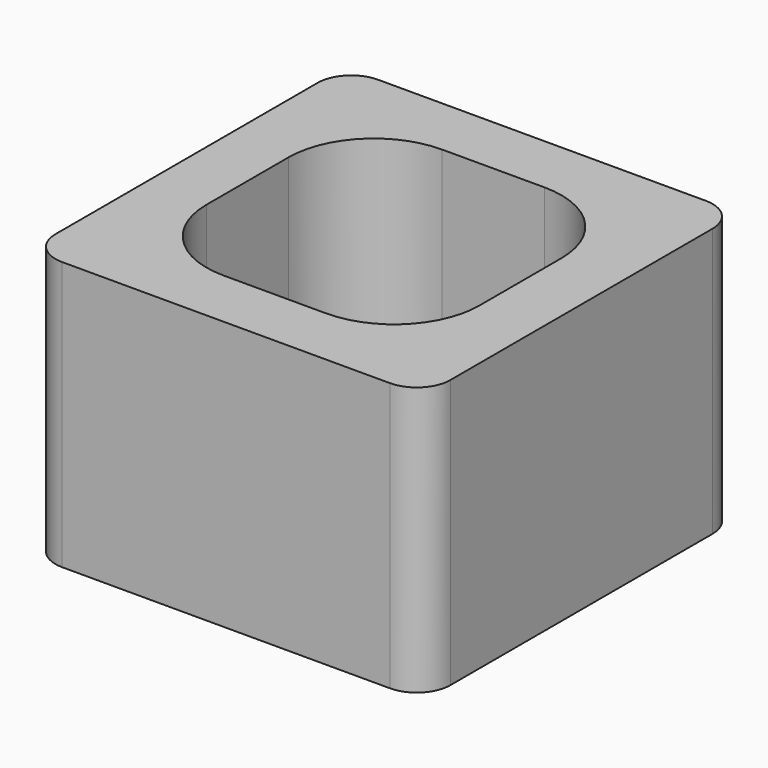
from build123d import *

# Parameters (mm, degrees)
F0_W     = 58.8
F0_H     = 58.8
F1_DEPTH = 40
F2_W     = 40.64
F2_H     = 40.64
F3_DEPTH = 40.001
F4_R     = 2.5
F5_DEPTH = 8
F6_R     = 12.7
F7_R     = 5


with BuildPart() as f1:
    # F0 (on Top) → F1 (new body)
    with BuildSketch(Plane.XY):
        Rectangle(F0_W, F0_H)
    extrude(amount=F1_DEPTH)

    # F2 (on face) → F3 (cut, through all)
    with BuildSketch(Plane.XY.offset(40)):
        Rectangle(F2_W, F2_H)
    extrude(amount=-F3_DEPTH, mode=Mode.SUBTRACT)

    # F4 (on face) → F5 (cut)
    with BuildSketch(Plane(origin=(0, 0, 0), x_dir=(1, 0, 0), z_dir=(0, 0, -1))):
        with Locations((-24.86, 0)):
            Circle(F4_R)
        with Locations((0, 24.86)):
            Circle(F4_R)
        with Locations((24.86, 0)):
            Circle(F4_R)
        with Locations((0, -24.86)):
            Circle(F4_R)
    extrude(amount=-F5_DEPTH, mode=Mode.SUBTRACT)

    # F6
    f6_edges = [f1.edges().sort_by_distance(p)[0] for p in [
        (-20.32, 20.32, 20),
        (20.32, 20.32, 20),
        (20.32, -20.32, 20),
        (-20.32, -20.32, 20),
    ]]
    fillet(f6_edges, radius=F6_R)

    # F7
    f7_edges = [f1.edges().sort_by_distance(p)[0] for p in [
        (-29.4, -29.4, 20),
        (-29.4, 29.4, 20),
        (29.4, -29.4, 20),
        (29.4, 29.4, 20),
    ]]
    fillet(f7_edges, radius=F7_R)


solid = f1.part
